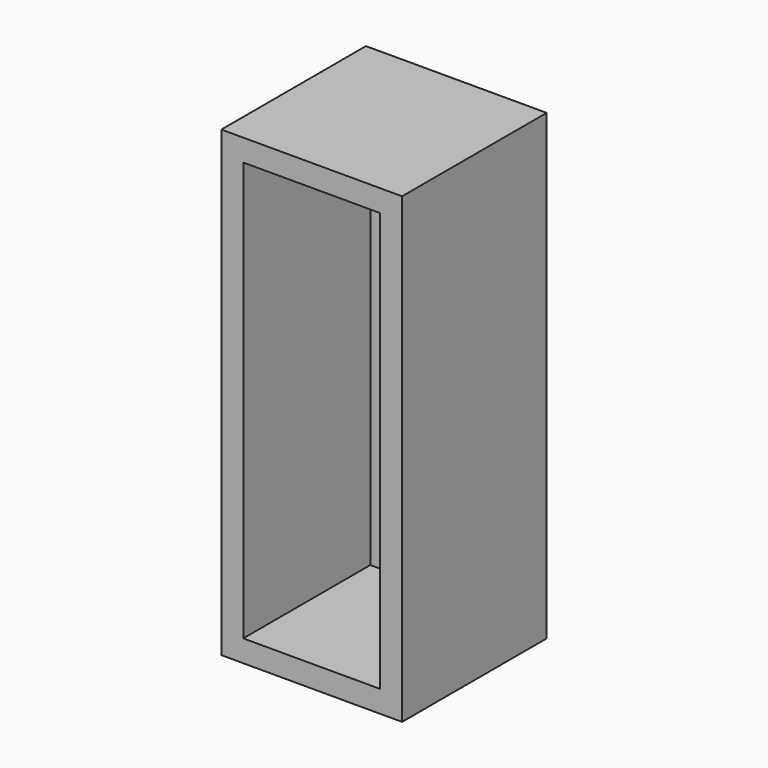
from build123d import *

# Parameters (mm, degrees)
F0_W     = 419.1
F0_H     = 419.1
F1_DEPTH = 1073.15
F2_T     = -50.8
F3_W     = 317.5
F3_H     = 152.4
F4_DEPTH = 19.05


with BuildPart() as f1:
    # F0 (on Top) → F1 (new body)
    with BuildSketch(Plane.XY):
        with Locations((0.943545, 59.428082)):
            Rectangle(F0_W, F0_H)
    extrude(amount=F1_DEPTH)

    # F2
    f2_openings = [f1.faces().sort_by_distance(p)[0] for p in [
        (0.943545, -150.121918, 536.575),
    ]]
    offset(amount=F2_T, openings=f2_openings)

    # F3 (on face) → F4 (join)
    with BuildSketch(Plane.XZ.offset(-218.178082)):
        with Locations((0.943545, 946.15)):
            Rectangle(F3_W, F3_H)
    extrude(amount=F4_DEPTH)


solid = f1.part
